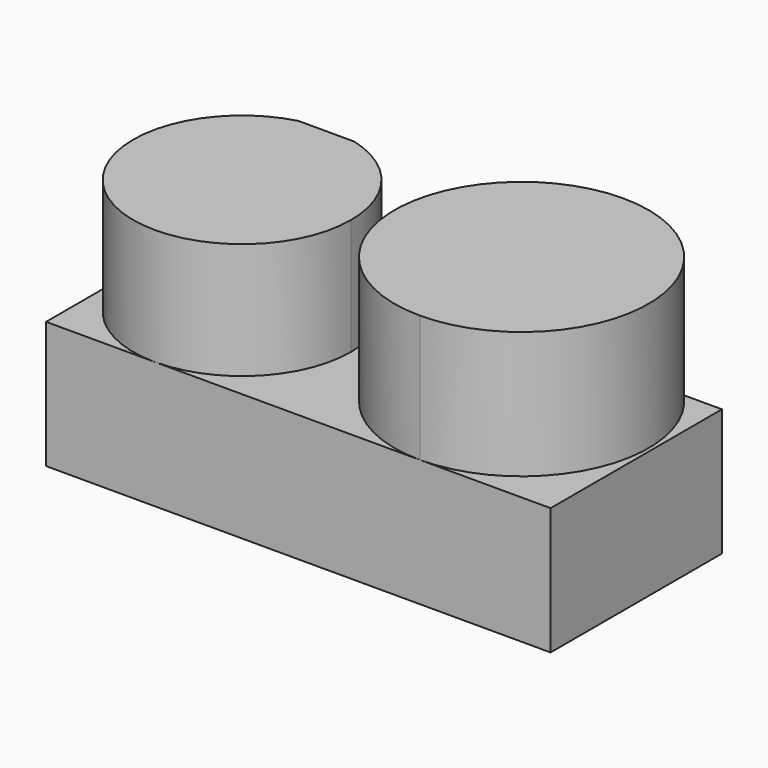
from build123d import *

# Parameters (mm, degrees)
F1_DEPTH = 35
F2_DEPTH = 32
F3_DEPTH = 35


with BuildPart() as f1:
    # F0 (on Top) → F1 (new body)
    with BuildSketch(Plane.XY):
        with BuildLine():
            ThreePointArc((8.0245215943, 29.5), (1.3674619739, -8.3744369255), (33.5, -29.5))
            ThreePointArc((33.5, -29.5), (58.2487373415, -19.2487373415), (68.5, 5.5))
            ThreePointArc((68.5, 5.5), (66.0318439702, 18.4104270998), (58.9754784057, 29.5))
            Line((58.9754784057, 29.5), (8.0245215943, 29.5))
        make_face()
        with BuildLine():
            ThreePointArc((58.9754784057, 29.5), (33.5, 40.5), (8.0245215943, 29.5))
            Line((8.0245215943, 29.5), (58.9754784057, 29.5))
        make_face()
    extrude(amount=F1_DEPTH)


with BuildPart() as f2:
    # F0 (on Top) → F2 (new body)
    with BuildSketch(Plane.XY):
        with BuildLine():
            ThreePointArc((-69.5, 0.5), (-60.7132034356, -20.7132034356), (-39.5, -29.5))
            ThreePointArc((-39.5, -29.5), (-18.2867965644, -20.7132034356), (-9.5, 0.5))
            ThreePointArc((-9.5, 0.5), (-15.7257032445, 18.7970711804), (-31.8188542521, 29.5))
            Line((-31.8188542521, 29.5), (-47.1811457479, 29.5))
            ThreePointArc((-47.1811457479, 29.5), (-63.2742967555, 18.7970711804), (-69.5, 0.5))
        make_face()
    extrude(amount=F2_DEPTH)


with BuildPart() as f3:
    # F0 (on Top) → F3 (new body)
    with BuildSketch(Plane.XY):
        with BuildLine():
            Line((-69.5, -29.5), (-39.5, -29.5))
            ThreePointArc((-39.5, -29.5), (-60.7132034356, -20.7132034356), (-69.5, 0.5))
            Line((-69.5, 0.5), (-69.5, -29.5))
        make_face()
        with BuildLine():
            Line((-69.5, 29.5), (-69.5, 0.5))
            ThreePointArc((-69.5, 0.5), (-63.2742967555, 18.7970711804), (-47.1811457479, 29.5))
            Line((-47.1811457479, 29.5), (-69.5, 29.5))
        make_face()
        with BuildLine():
            ThreePointArc((-69.5, 0.5), (-60.7132034356, -20.7132034356), (-39.5, -29.5))
            ThreePointArc((-39.5, -29.5), (-18.2867965644, -20.7132034356), (-9.5, 0.5))
            ThreePointArc((-9.5, 0.5), (-15.7257032445, 18.7970711804), (-31.8188542521, 29.5))
            Line((-31.8188542521, 29.5), (-47.1811457479, 29.5))
            ThreePointArc((-47.1811457479, 29.5), (-63.2742967555, 18.7970711804), (-69.5, 0.5))
        make_face()
        with BuildLine():
            ThreePointArc((8.0245215943, 29.5), (1.3674619739, -8.3744369255), (33.5, -29.5))
            ThreePointArc((33.5, -29.5), (58.2487373415, -19.2487373415), (68.5, 5.5))
            ThreePointArc((68.5, 5.5), (66.0318439702, 18.4104270998), (58.9754784057, 29.5))
            Line((58.9754784057, 29.5), (8.0245215943, 29.5))
        make_face()
        with BuildLine():
            Line((33.5, -29.5), (69.5, -29.5))
            Line((69.5, -29.5), (69.5, 29.5))
            Line((69.5, 29.5), (58.9754784057, 29.5))
            ThreePointArc((58.9754784057, 29.5), (66.0318439702, 18.4104270998), (68.5, 5.5))
            ThreePointArc((68.5, 5.5), (58.2487373415, -19.2487373415), (33.5, -29.5))
        make_face()
        with BuildLine():
            Line((-39.5, -29.5), (33.5, -29.5))
            ThreePointArc((33.5, -29.5), (1.3674619739, -8.3744369255), (8.0245215943, 29.5))
            Line((8.0245215943, 29.5), (-31.8188542521, 29.5))
            ThreePointArc((-31.8188542521, 29.5), (-15.7257032445, 18.7970711804), (-9.5, 0.5))
            ThreePointArc((-9.5, 0.5), (-18.2867965644, -20.7132034356), (-39.5, -29.5))
        make_face()
    extrude(amount=-F3_DEPTH)


solid = Compound([f1.part, f2.part, f3.part])
